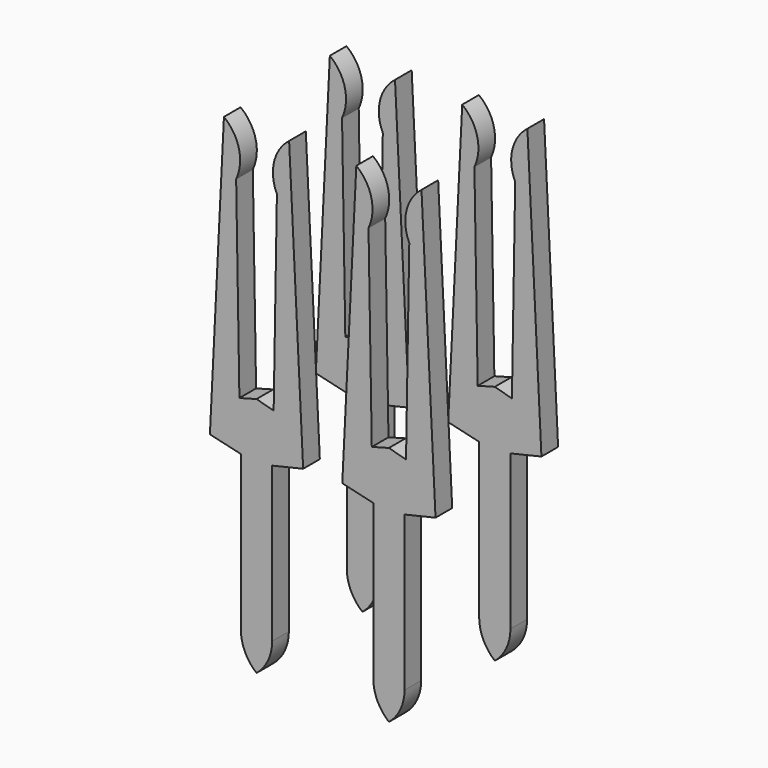
from build123d import *

# Parameters (mm, degrees)
EXTRUDE009_DEPTH                     = 0.4
EXTRUDE009_ONTO_SKETCH009_ROLL_ANGLE = 90
ARRAY005_X_COUNT                     = 2
ARRAY005_X_PITCH                     = 2.54
ARRAY005_Y_COUNT                     = 2
ARRAY005_Y_PITCH                     = 2.54


with BuildPart() as obj1:
    # Sketch009 as drawn → Extrude009 (new)
    with BuildSketch(Plane.XY):
        with BuildLine():
            Line((-0.62527, 6.191788), (-0.894618, 0.740609))
            Line((-0.894618, 0.740609), (-0.3, 0.601222))
            Line((-0.3, 0.601222), (-0.3, -2.364495))
            ThreePointArc((-0.3, -2.364495), (-0.221231, -2.715873), (0, -3))
            Line((0, -3), (0, 1.62804))
            Line((0, 1.62804), (-0.328584, 1.538486))
            Line((-0.328584, 1.538486), (-0.391, 5.216604))
            ThreePointArc((-0.391, 5.216604), (-0.336055, 5.745535), (-0.62527, 6.191788))
        make_face()
    extrude(amount=-EXTRUDE009_DEPTH)


with BuildPart() as obj1_1:
    # Extrude009 onto Sketch009 roll: moved
    add(obj1.part.rotate(Axis((0, 0, 0), (1, 0, 0)), EXTRUDE009_ONTO_SKETCH009_ROLL_ANGLE))


with BuildPart() as obj1_2:
    # Extrude009 onto Sketch009 placement: moved
    add(obj1_1.part.moved(Location((0, -0.2, 0))))


with BuildPart() as pins002:
    # Part__Mirroring001: instance of obj1
    add(obj1_2.part.mirror(Plane(origin=(0, 0, 0), x_dir=(0, -1, 0), z_dir=(1, 0, 0))))

    # Fusion003: union obj1
    add(obj1_2.part)

    # Array005 X: pins002 ×2


with BuildPart() as pins002_1:
    add(pins002.part)
    with Locations(*[(i * ARRAY005_X_PITCH, 0, 0) for i in range(1, ARRAY005_X_COUNT)]):
        add(pins002.part)

    # Array005 Y: pins002 ×2


with BuildPart() as pins002_2:
    add(pins002_1.part)
    with Locations(*[(0, i * ARRAY005_Y_PITCH, 0) for i in range(1, ARRAY005_Y_COUNT)]):
        add(pins002_1.part)


with BuildPart() as pins002_3:
    # Array005 placement: moved
    add(pins002_2.part.moved(Location((0, -1.27, 0))))


solid = pins002_3.part
